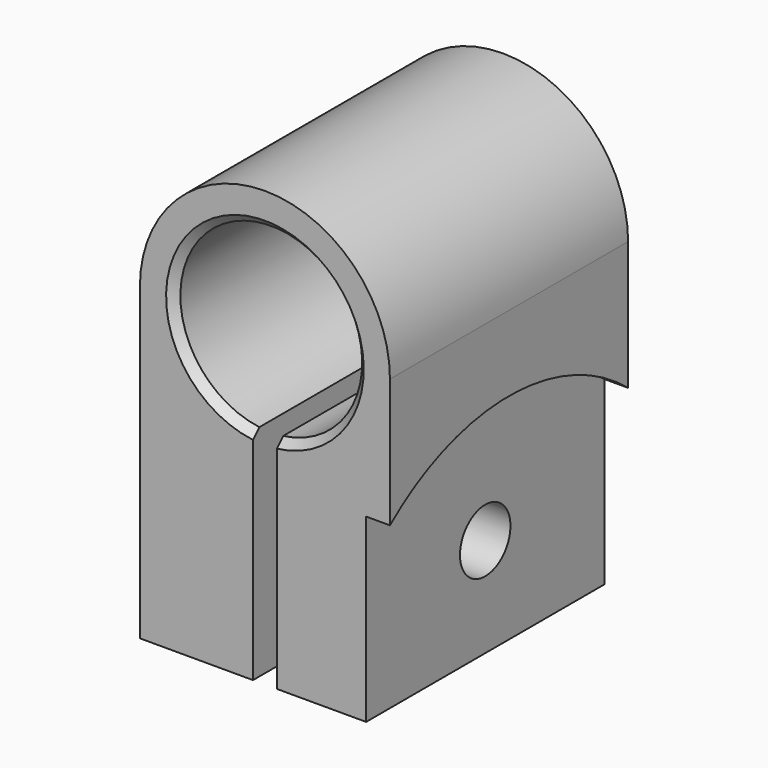
from build123d import *

# Parameters (mm, degrees)
F1_DEPTH = 19.05
F2_SIZE  = 0.508
F4_DEPTH = 1.524
F6_D     = 4.0386
F6_DEPTH = 5.842
F6_TIP   = 1.213317848


with BuildPart() as f1:
    # F0 (on Front) → F1 (new body)
    with BuildSketch(Plane.XZ):
        with BuildLine():
            Line((8.001, -19.812), (8.001, 0))
            ThreePointArc((8.001, 0), (0, 8.001), (-8.001, 0))
            Line((-8.001, 0), (-8.001, -19.812))
            Line((-8.001, -19.812), (-0.762, -19.812))
            Line((-0.762, -19.812), (-0.762, -5.7664713266))
            ThreePointArc((-0.762, -5.7664713266), (0, 5.8166), (0.762, -5.7664713266))
            Line((0.762, -5.7664713266), (0.762, -19.812))
            Line((0.762, -19.812), (8.001, -19.812))
        make_face()
    extrude(amount=-F1_DEPTH)

    # F2
    f2_edges = [f1.edges().sort_by_distance(p)[0] for p in [
        (0, 0, 5.8166),
    ]]
    chamfer(f2_edges, length=F2_SIZE)

    # F3 (on face) → F4 (cut)
    with BuildSketch(Plane.YZ.offset(8.001)):
        with BuildLine():
            Line((19.05, -19.812), (19.05, -8.2424463785))
            ThreePointArc((19.05, -8.2424463785), (9.525, -4.826), (0, -8.2424463785))
            Line((0, -8.2424463785), (0, -19.812))
            Line((0, -19.812), (19.05, -19.812))
        make_face()
    extrude(amount=-F4_DEPTH, mode=Mode.SUBTRACT)

    # F6
    with Locations(Plane.YZ.offset(6.477)):
        with Locations((9.525, -13.462)):
            Hole(F6_D / 2, depth=F6_DEPTH)
            with Locations((0, 0, -(F6_DEPTH + F6_TIP / 2))):  # 118° drill point
                Cone(0, F6_D / 2, F6_TIP, mode=Mode.SUBTRACT)


solid = f1.part
